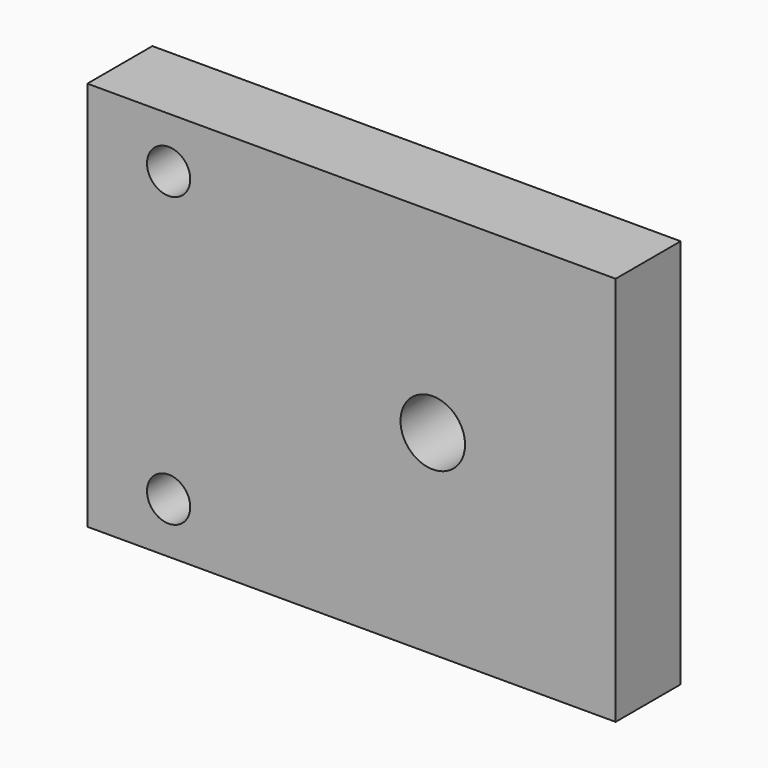
from build123d import *

# Parameters (mm, degrees)
F0_W     = 82.55
F0_H     = 60.96
F1_DEPTH = 12.7
F3_D     = 10.0838
F5_D     = 6.7564


with BuildPart() as f1:
    # F0 (on Front) → F1 (new body)
    with BuildSketch(Plane.XZ):
        Rectangle(F0_W, F0_H)
    extrude(amount=F1_DEPTH)

    # F3 (through all)
    with Locations(Plane(origin=(0, 0, 0), x_dir=(-1, 0, 0), z_dir=(0, 1, 0))):
        with Locations((-12.7, 0)):
            Hole(F3_D / 2)

    # F5 (through all)
    with Locations(Plane.XZ.offset(12.7)):
        with Locations((-28.575, 22.5425), (-28.575, -22.5425)):
            Hole(F5_D / 2)


solid = f1.part
